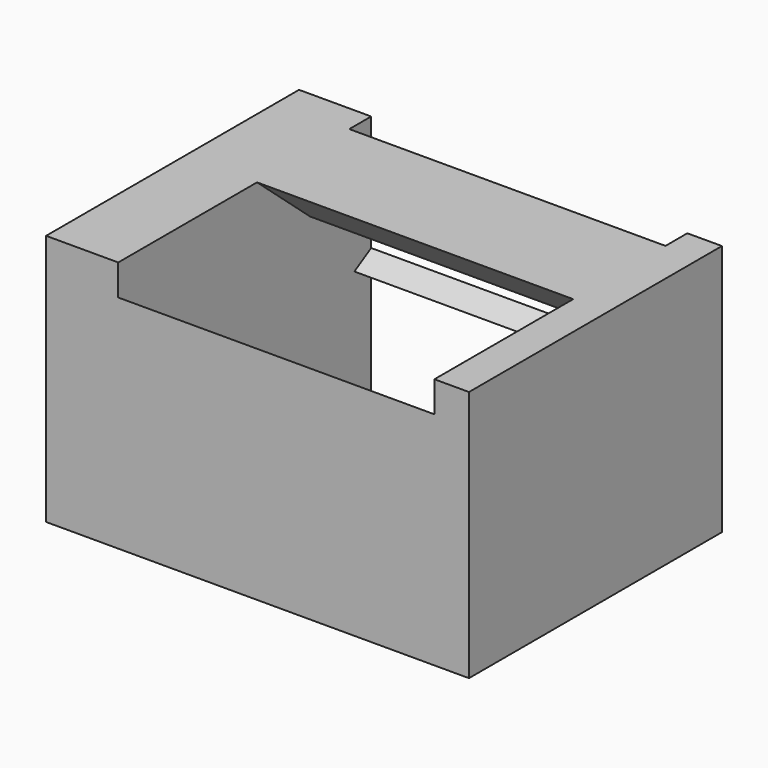
from build123d import *

# Parameters (mm, degrees)
F0_W     = 33.974414
F0_H     = 20.238973
F1_DEPTH = 25.4
F3_DEPTH = 12.7


with BuildPart() as f1:
    # F0 (on Front) → F1 (new body)
    with BuildSketch(Plane.XZ):
        with Locations((-1.508936, 12.108095)):
            Rectangle(F0_W, F0_H)
    extrude(amount=F1_DEPTH)

    # F2 (on Right) → F3 (cut, symmetric)
    with BuildSketch(Plane.YZ):
        Polygon((-31.785678, 39.70434), (-39.439067, 30.098028), (11.018346, -7.099656), (15.880866, 4.716209), (-1.683568, 11.944407), (7.317314, 17.191587), (0.589001, 25.465947), (-6.135374, 17.646428), align=None)
    extrude(amount=F3_DEPTH, both=True, mode=Mode.SUBTRACT)


solid = f1.part
